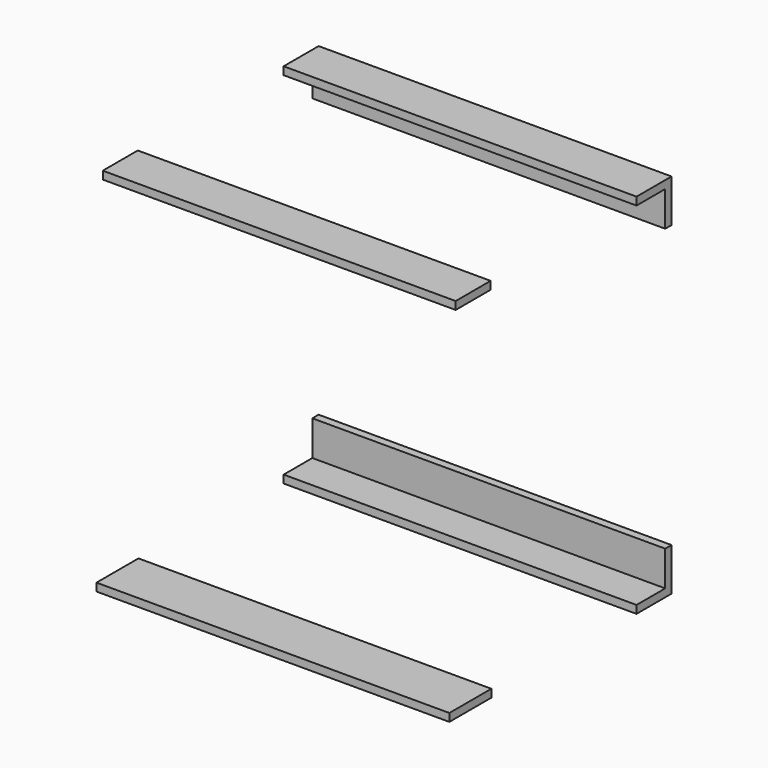
from build123d import *

# Parameters (mm, degrees)
F0_W     = 18
F0_H     = 80
F0_W_2   = 100
F0_H_2   = 18
F0_W_3   = 120
F1_DEPTH = 807


with BuildPart() as f1:
    # F0 (on Right) → F1 (new body)
    with BuildSketch(Plane.YZ):
        Polygon((317.5, 402), (317.5, 420), (217.5, 420), (217.5, 402), (299.5, 402), align=None)
        with Locations((308.5, 362)):
            Rectangle(F0_W, F0_H)
        with Locations((-249.5, 411)):
            Rectangle(F0_W_2, F0_H_2)
        with Locations((-257.5, -411)):
            Rectangle(F0_W_3, F0_H_2)
        Polygon((217.5, -420), (317.5, -420), (317.5, -402), (299.5, -402), (217.5, -402), align=None)
        with Locations((308.5, -362)):
            Rectangle(F0_W, F0_H)
    extrude(amount=F1_DEPTH)


solid = f1.part
